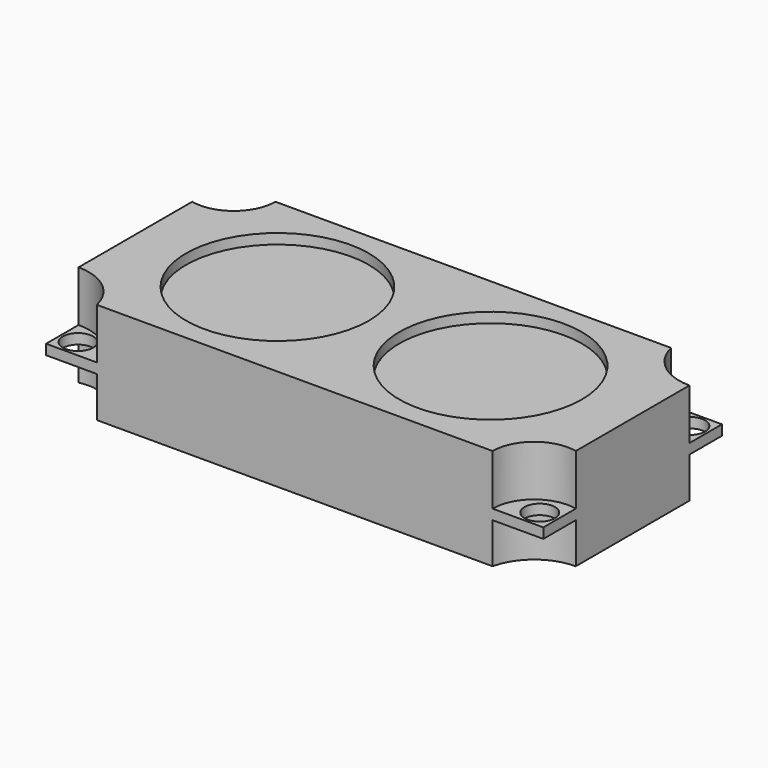
from build123d import *

# Parameters (mm, degrees)
SKETCH_W        = 98
SKETCH_H        = 44
PAD_DEPTH       = 20
POCKET_DEPTH    = 10
POCKET001_DEPTH = 8
SKETCH003_R     = 3
HOLE_DEPTH      = 25
SKETCH004_R     = 18
POCKET002_DEPTH = 2


with BuildPart() as part:
    # Sketch → Pad (new body)
    with BuildSketch(Plane.XY):
        with Locations((49, 22)):
            Rectangle(SKETCH_W, SKETCH_H)
    extrude(amount=PAD_DEPTH)

    # Sketch001 (on Face6 of Pad) → Pocket (cut)
    with BuildSketch(Plane.XY.offset(20)):
        with BuildLine():
            Line((0, 44), (0, 36))
            ThreePointArc((0, 36), (6.922499, 37.596876), (10, 44))
            Line((0, 44), (10, 44))
        make_face()
        with BuildLine():
            Line((0, 0), (0, 8))
            ThreePointArc((10, 0), (6.403124, 5.753905), (0, 8))
            Line((0, 0), (10, 0))
        make_face()
        with BuildLine():
            Line((98, 36), (98, 44))
            Line((98, 44), (88, 44))
            ThreePointArc((88, 44), (91.596876, 38.246095), (98, 36))
        make_face()
        with BuildLine():
            Line((88, 0), (98, 0))
            Line((98, 0), (98, 8))
            ThreePointArc((98, 8), (91.077501, 6.403124), (88, 0))
        make_face()
    extrude(amount=-POCKET_DEPTH, mode=Mode.SUBTRACT)

    # Sketch002 (on Face2 of Pocket) → Pocket001 (cut)
    with BuildSketch(Plane(origin=(0, 0, 0), x_dir=(1, 0, 0), z_dir=(0, 0, -1))):
        with BuildLine():
            Line((10, -44), (0, -44))
            Line((0, -36), (0, -44))
            ThreePointArc((10, -44), (6.403124, -38.246095), (0, -36))
        make_face()
        with BuildLine():
            Line((0, 0), (0, -8))
            ThreePointArc((0, -8), (6.922499, -6.403124), (10, 0))
            Line((0, 0), (10, 0))
        make_face()
        with BuildLine():
            Line((98, 0), (88, 0))
            ThreePointArc((88, 0), (91.596876, -5.753905), (98, -8))
            Line((98, 0), (98, -8))
        make_face()
        with BuildLine():
            Line((88, -44), (98, -44))
            Line((98, -44), (98, -36))
            ThreePointArc((98, -36), (91.077501, -37.596876), (88, -44))
        make_face()
    extrude(amount=-POCKET001_DEPTH, mode=Mode.SUBTRACT)

    # Sketch003 (on Face21 of Pocket001) → Hole (cut)
    with BuildSketch(Plane.XY.offset(10)):
        with Locations((3.5, 3.5)):
            Circle(SKETCH003_R)
        with Locations((3.5, 40.5)):
            Circle(SKETCH003_R)
        with Locations((94.5, 40.5)):
            Circle(SKETCH003_R)
        with Locations((94.5, 3.5)):
            Circle(SKETCH003_R)
    extrude(amount=-HOLE_DEPTH, mode=Mode.SUBTRACT)

    # Sketch004 (on Face8 of Hole) → Pocket002 (cut)
    with BuildSketch(Plane.XY.offset(20)):
        with Locations((28, 22)):
            Circle(SKETCH004_R)
        with Locations((70, 22)):
            Circle(SKETCH004_R)
    extrude(amount=-POCKET002_DEPTH, mode=Mode.SUBTRACT)


solid = part.part
